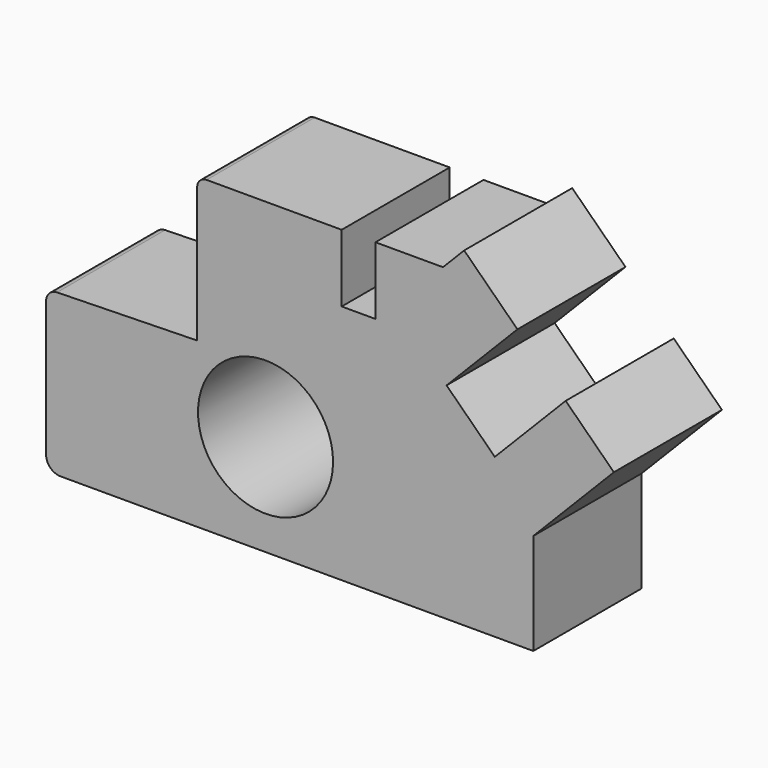
from build123d import *

# Parameters (mm, degrees)
F0_R     = 254
F1_DEPTH = 508


with BuildPart() as f1:
    # F0 (on Front) → F1 (new body)
    with BuildSketch(Plane.XZ):
        with BuildLine():
            ThreePointArc((-603.919565, 54.725834), (-587.890739, 16.028826), (-549.193731, 0))
            Line((-549.193731, 0), (1228.806269, 0))
            Line((1228.806269, 0), (1228.806269, 381))
            Line((1228.806269, 381), (1531.902324, 690.581637))
            Line((1531.902324, 690.581637), (1350.588546, 868.096981))
            Line((1350.588546, 868.096981), (1084.047647, 595.852699))
            Line((1084.047647, 595.852699), (902.551458, 773.546631))
            Line((902.551458, 773.546631), (1169.092357, 1045.790914))
            Line((1169.092357, 1045.790914), (968.758436, 1241.927939))
            Line((968.758436, 1241.927939), (889, 1160.46285))
            Line((889, 1160.46285), (635, 1160.46285))
            Line((635, 1160.46285), (635, 906.46285))
            Line((635, 906.46285), (508, 906.46285))
            Line((508, 906.46285), (508, 1160.46285))
            Line((508, 1160.46285), (0, 1160.46285))
            ThreePointArc((0, 1160.46285), (-25.111123, 1150.061482), (-35.512491, 1124.950359))
            Line((-35.512491, 1124.950359), (-35.512491, 616.950359))
            Line((-35.512491, 616.950359), (-562.566757, 605.0249))
            ThreePointArc((-562.566757, 605.0249), (-591.863772, 592.30313), (-603.919565, 562.725834))
            Line((-603.919565, 562.725834), (-603.919565, 54.725834))
        make_face()
        with Locations((221.580435, 381)):
            Circle(F0_R, mode=Mode.SUBTRACT)
    extrude(amount=F1_DEPTH)


solid = f1.part
